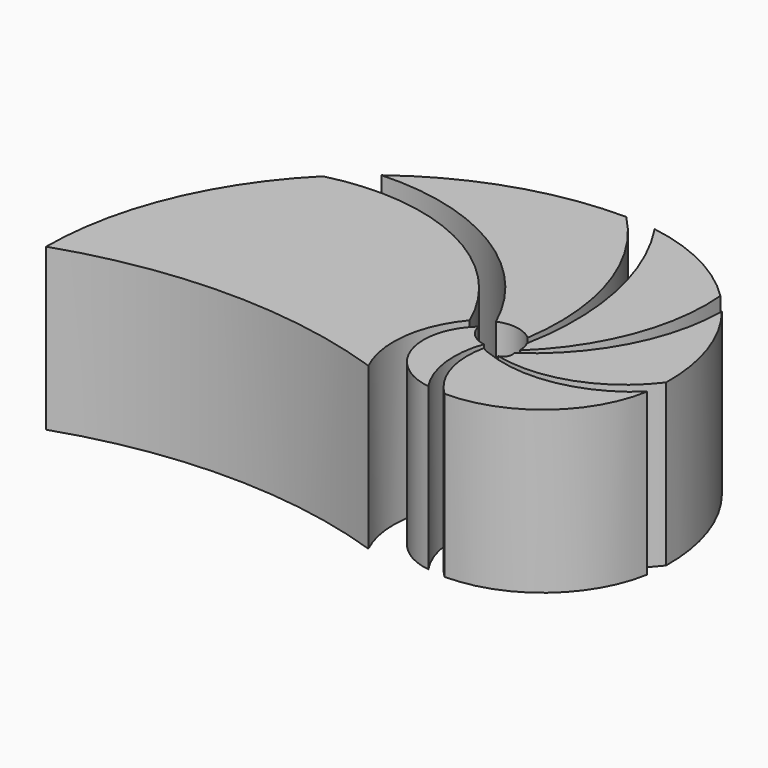
from build123d import *

# Parameters (mm, degrees)
F1_DEPTH = 25


with BuildPart() as f1:
    # F0 (on Top) → F1 (new body)
    with BuildSketch(Plane.XY):
        with BuildLine():
            ThreePointArc((6.174149, -13.845643), (-9.177662, 2.271332), (-31.31931, 4.547816))
            ThreePointArc((-31.31931, 4.547816), (-42.157948, -11.673351), (-45.963971, -30.807523))
            ThreePointArc((-45.963971, -30.807523), (-20.963971, -26.688378), (4.036029, -30.807523))
            ThreePointArc((4.036029, -30.807523), (2.606381, -22.01161), (6.174149, -13.845643))
        make_face()
        with BuildLine():
            ThreePointArc((14.518009, -13.025542), (13.083494, 4.321886), (4.036029, 19.192477))
            ThreePointArc((4.036029, 19.192477), (-11.785884, 16.66615), (-25.959959, 9.195486))
            ThreePointArc((-25.959959, 9.195486), (-5.249444, 3.905643), (8.881545, -12.132531))
            ThreePointArc((8.881545, -12.132531), (11.829177, -11.762299), (14.518009, -13.025542))
        make_face()
        with BuildLine():
            ThreePointArc((15.836029, -16.207523), (23.883825, -4.185678), (25.885628, 10.142077))
            ThreePointArc((25.885628, 10.142077), (17.997916, 15.846737), (8.732986, 18.83341))
            ThreePointArc((8.732986, 18.83341), (15.300058, 2.958983), (15.373339, -14.220031))
            ThreePointArc((15.373339, -14.220031), (15.708195, -15.189679), (15.836029, -16.207523))
        make_face()
        with BuildLine():
            ThreePointArc((14.713044, -19.018793), (25.914836, -18.378929), (34.936029, -11.707523))
            ThreePointArc((34.936029, -11.707523), (33.387484, -1.766633), (28.576589, 7.069348))
            ThreePointArc((28.576589, 7.069348), (25.130464, -6.620668), (15.753148, -17.173311))
            ThreePointArc((15.753148, -17.173311), (15.644055, -18.327666), (14.713044, -19.018793))
        make_face()
        with BuildLine():
            ThreePointArc((12.08703, -18.432705), (12.335878, -25.112611), (15.836029, -30.807523))
            ThreePointArc((15.836029, -30.807523), (28.118003, -26.333066), (34.648428, -15.009585))
            ThreePointArc((34.648428, -15.009585), (24.484334, -20.17441), (13.141989, -19.018793))
            ThreePointArc((13.141989, -19.018793), (12.587136, -18.775021), (12.08703, -18.432705))
        make_face()
        with BuildLine():
            ThreePointArc((11.442334, -17.670792), (9.238686, -16.590532), (8.043024, -14.447307))
            ThreePointArc((8.043024, -14.447307), (5.426957, -24.067758), (13.063692, -30.476904))
            ThreePointArc((13.063692, -30.476904), (10.737433, -24.265732), (11.442334, -17.670792))
        make_face()
    extrude(amount=F1_DEPTH)


solid = f1.part
